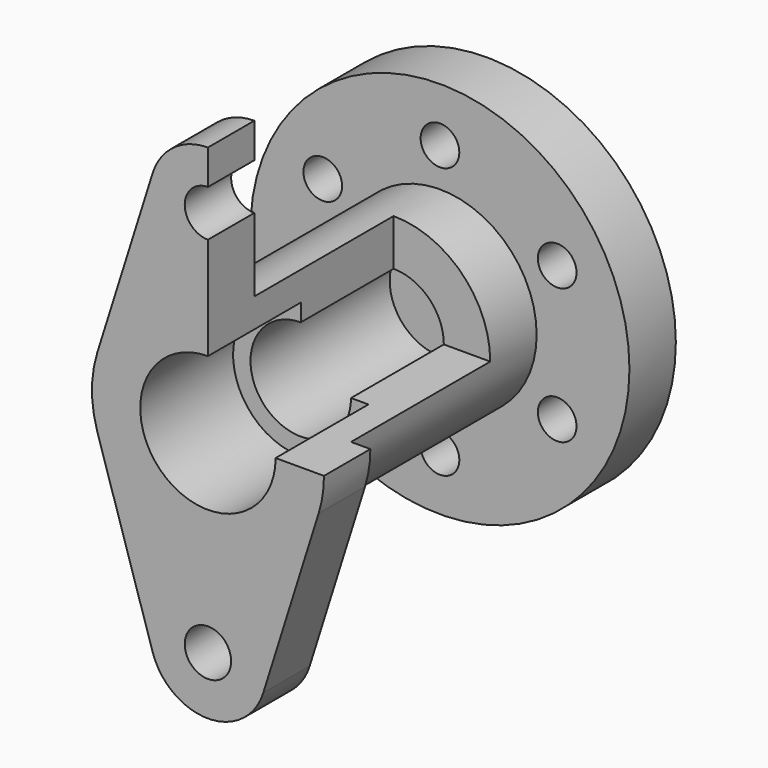
from build123d import *

# Parameters (mm, degrees)
SKETCH_R           = 49
PAD_DEPTH          = 15
SKETCH001_R        = 5
POCKET_DEPTH       = 293.805591
POLARPATTERN_COUNT = 6
SKETCH002_R        = 25
PAD001_DEPTH       = 75
SKETCH003_R        = 17.5
POCKET001_DEPTH    = 30
SKETCH004_R        = 13
POCKET002_DEPTH    = 45
SKETCH005_R        = 6
SKETCH005_R_2      = 17.5
PAD002_DEPTH       = 15
SKETCH006_W        = 69.832336
SKETCH006_H        = 89.129906
POCKET003_DEPTH    = 60


with BuildPart() as part:
    # Sketch → Pad (new body)
    with BuildSketch(Plane.XZ):
        Circle(SKETCH_R)
    extrude(amount=PAD_DEPTH)

    # Sketch001 → Pocket (cut, through all)
    with BuildSketch(Plane.XZ.offset(15)):
        with Locations((0, 35)):
            Circle(SKETCH001_R)
    pocket = extrude(amount=-POCKET_DEPTH, mode=Mode.SUBTRACT)

    # PolarPattern: Pocket ×6 about axis
    polarpattern_axis = Axis((0, -15, 0), (0, -1, 0))
    for i in range(1, POLARPATTERN_COUNT):
        add(pocket.rotate(polarpattern_axis, i * 360 / POLARPATTERN_COUNT), mode=Mode.SUBTRACT)

    # Sketch002 → Pad001 (new body)
    with BuildSketch(Plane.XZ.offset(15)):
        Circle(SKETCH002_R)
    extrude(amount=PAD001_DEPTH)

    # Sketch003 → Pocket001 (cut)
    with BuildSketch(Plane.XZ.offset(90)):
        Circle(SKETCH003_R)
    extrude(amount=-POCKET001_DEPTH, mode=Mode.SUBTRACT)

    # Sketch004 → Pocket002 (cut)
    with BuildSketch(Plane.XZ.offset(60)):
        Circle(SKETCH004_R)
    extrude(amount=-POCKET002_DEPTH, mode=Mode.SUBTRACT)

    # Sketch005 → Pad002 (new body)
    with BuildSketch(Plane.XZ.offset(90)):
        with BuildLine():
            ThreePointArc((-28.618176, 9), (-30, 0), (-28.618176, -9))
            Line((-14.309088, -54.5), (-28.618176, -9))
            ThreePointArc((-14.309088, -54.5), (8e-06, -65), (14.309093, -54.499985))
            Line((14.309093, -54.499985), (28.618176, -9.000001))
            ThreePointArc((28.618176, -9.000001), (30, 0), (28.618176, 9))
            Line((14.309078, 54.50003), (28.618176, 9))
            ThreePointArc((14.309078, 54.50003), (-1.6e-05, 65), (-14.309088, 54.5))
            Line((-28.618176, 9), (-14.309088, 54.5))
        make_face()
        with Locations((0, 50)):
            Circle(SKETCH005_R, mode=Mode.SUBTRACT)
        with Locations((0, -50)):
            Circle(SKETCH005_R, mode=Mode.SUBTRACT)
        Circle(SKETCH005_R_2, mode=Mode.SUBTRACT)
    extrude(amount=-PAD002_DEPTH)

    # Sketch006 → Pocket003 (cut)
    with BuildSketch(Plane.XZ.offset(90)):
        with Locations((34.916168, 44.564953)):
            Rectangle(SKETCH006_W, SKETCH006_H)
    extrude(amount=-POCKET003_DEPTH, mode=Mode.SUBTRACT)


solid = part.part
